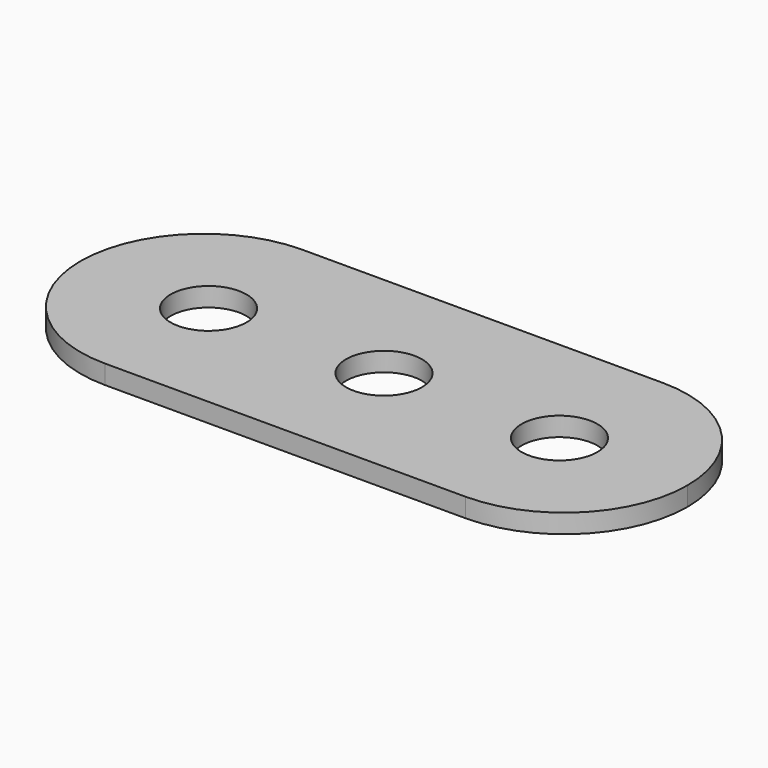
from build123d import *

# Parameters (mm, degrees)
F0_R     = 4
F1_DEPTH = 2


with BuildPart() as f1:
    # F0 (on Top) → F1 (new body)
    with BuildSketch(Plane.XY):
        with BuildLine():
            Line((16.098261, 11.838883), (-21.901739, 11.838883))
            ThreePointArc((-21.901739, 11.838883), (-31.094127, 8.031271), (-34.901739, -1.161117))
            ThreePointArc((-34.901739, -1.161117), (-31.094127, -10.353505), (-21.901739, -14.161117))
            Line((-21.901739, -14.161117), (16.098261, -14.161117))
            ThreePointArc((16.098261, -14.161117), (25.29065, -10.353505), (29.098261, -1.161117))
            ThreePointArc((29.098261, -1.161117), (25.29065, 8.031271), (16.098261, 11.838883))
        make_face()
        with Locations((-21.401739, -1.161117)):
            Circle(F0_R, mode=Mode.SUBTRACT)
        with Locations((-2.901739, -1.161117)):
            Circle(F0_R, mode=Mode.SUBTRACT)
        with Locations((15.598261, -1.161117)):
            Circle(F0_R, mode=Mode.SUBTRACT)
    extrude(amount=F1_DEPTH)


solid = f1.part
